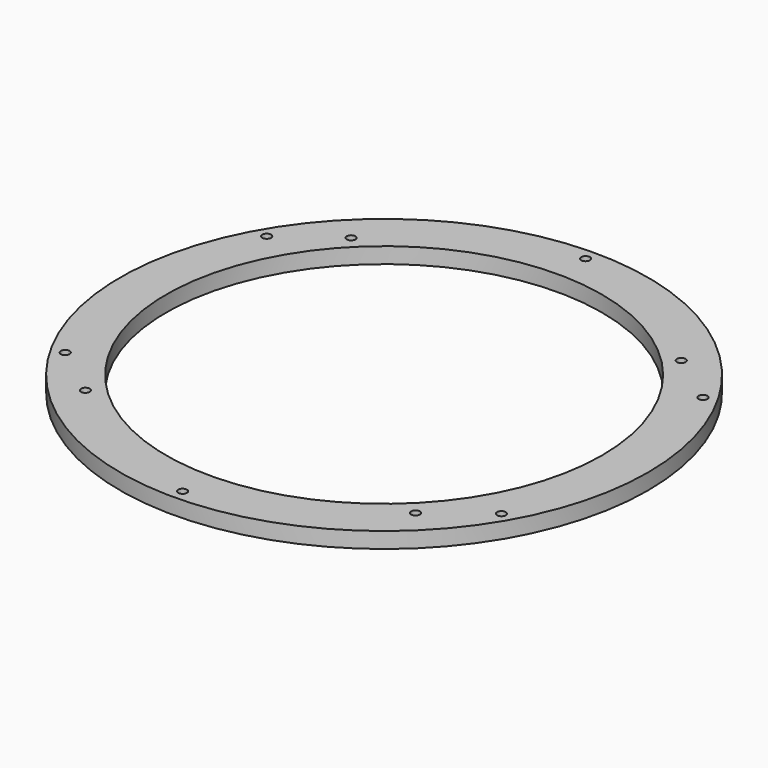
from build123d import *

# Parameters (mm, degrees)
F0_R     = 150
F0_R_2   = 123.825
F1_DEPTH = 9
F2_R     = 2.5
F3_DEPTH = 25.4


with BuildPart() as f1:
    # F0 (on Top) → F1 (new body)
    with BuildSketch(Plane.XY):
        Circle(F0_R)
        Circle(F0_R_2, mode=Mode.SUBTRACT)
    extrude(amount=F1_DEPTH)

    # F2 (on face) → F3 (cut)
    with BuildSketch(Plane.XY.offset(9)):
        with Locations((-94.292689, -94.292689)):
            Circle(F2_R)
        with Locations((93.755721, -94.829657)):
            Circle(F2_R)
        with Locations((94.292689, 93.218753)):
            Circle(F2_R)
        with Locations((-93.755721, 93.755721)):
            Circle(F2_R)
        with Locations((0, 143.131807)):
            Circle(F2_R)
        with Locations((123.955781, 71.565904)):
            Circle(F2_R)
        with Locations((123.955781, -71.565904)):
            Circle(F2_R)
        with Locations((0, -143.131807)):
            Circle(F2_R)
        with Locations((-123.955782, -71.565903)):
            Circle(F2_R)
        with Locations((-123.955781, 71.565904)):
            Circle(F2_R)
    extrude(amount=-F3_DEPTH, mode=Mode.SUBTRACT)


solid = f1.part
